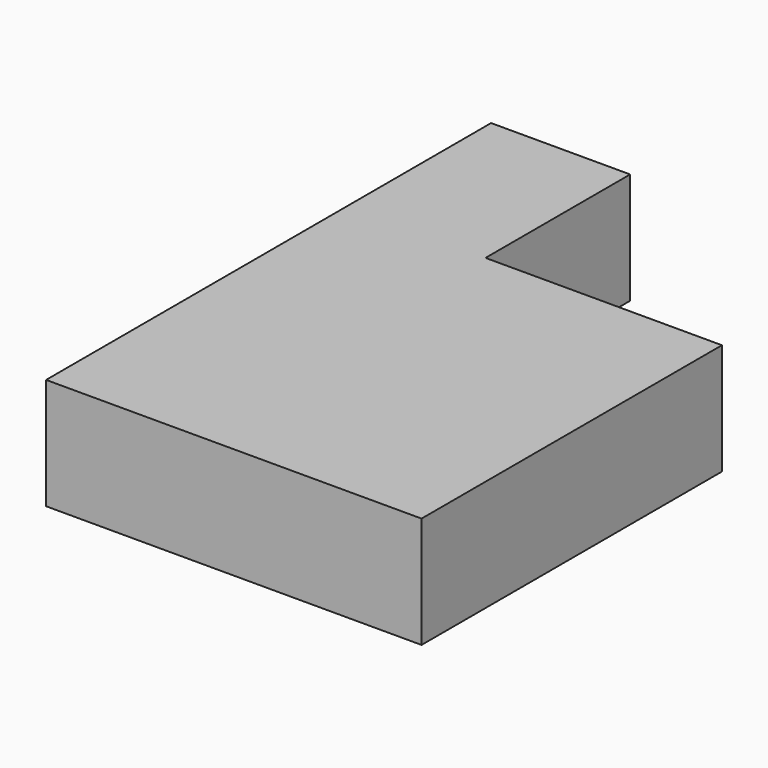
from build123d import *

# Parameters (mm, degrees)
PAD_DEPTH = 1.6


with BuildPart() as part:
    # Sketch → Pad (new body)
    with BuildSketch(Plane.XY):
        Polygon((0, 8), (0, 0), (5.4, 0), (5.4, 5.4), (2, 5.4), (2, 8), align=None)
    extrude(amount=PAD_DEPTH)


solid = part.part
